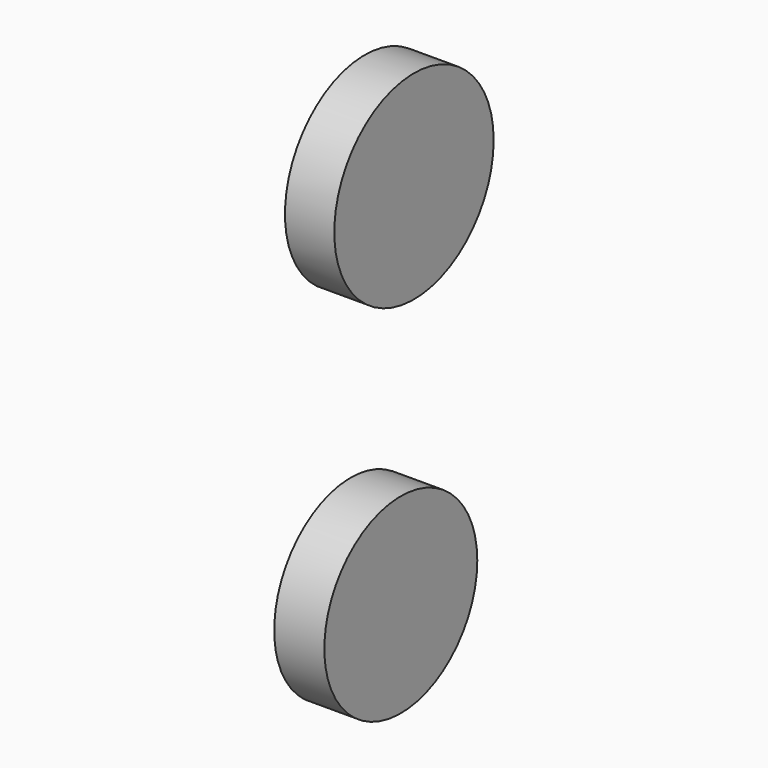
from build123d import *

# Parameters (mm, degrees)
F0_R     = 48.444831
F2_DEPTH = 25.4
F1_R     = 50.469705
F3_DEPTH = 25
F4_R     = 9.10957
F5_DEPTH = 25


with BuildPart() as f2:
    # F0 (on Right) → F2 (new body)
    with BuildSketch(Plane.YZ):
        with Locations((-33.801425, -110.020988)):
            Circle(F0_R)
    extrude(amount=F2_DEPTH)

    # F4 (on face) → F5 (cut)
    with BuildSketch(Plane(origin=(0, 0, 0), x_dir=(0, -1, 0), z_dir=(-1, 0, 0))):
        with Locations((33.801425, -113.997951)):
            Circle(F4_R)
    extrude(amount=-F5_DEPTH, mode=Mode.SUBTRACT)


with BuildPart() as f3:
    # F1 (on Right) → F3 (new body)
    with BuildSketch(Plane.YZ):
        with Locations((-24.964452, 72.919242)):
            Circle(F1_R)
    extrude(amount=F3_DEPTH)


solid = Compound([f2.part, f3.part])
